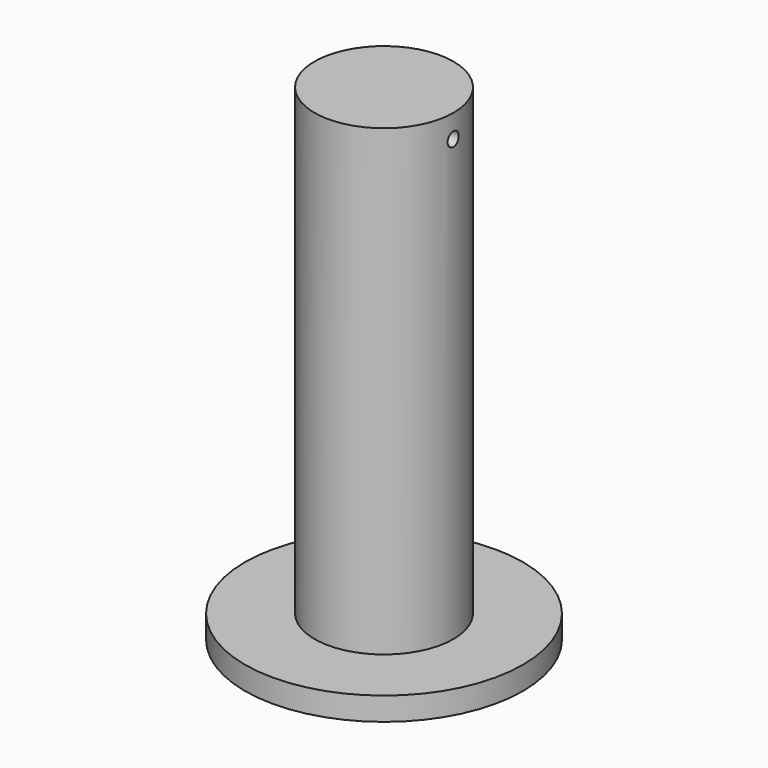
from build123d import *

# Parameters (mm, degrees)
F0_W          = 15
F0_H          = 100
F2_R          = 1.5
F3_DEPTH      = 25
F3_DEPTH_BACK = 25


with BuildPart() as f1:
    # F0 (on Front) → F1 (revolve)
    with BuildSketch(Plane.XZ):
        with Locations((7.5, 50)):
            Rectangle(F0_W, F0_H)
        Polygon((15, 0), (0, 0), (0, -5), (30, -5), (30, 0), align=None)
    revolve(axis=Axis((0, 0, 50), (0, 0, 1)))

    # F2 (on Right) → F3 (cut, two sides)
    with BuildSketch(Plane.YZ) as f3_sk:
        with Locations((0, 95)):
            Circle(F2_R)
    extrude(amount=-F3_DEPTH, mode=Mode.SUBTRACT)
    extrude(f3_sk.sketch, amount=F3_DEPTH_BACK, mode=Mode.SUBTRACT)


solid = f1.part
